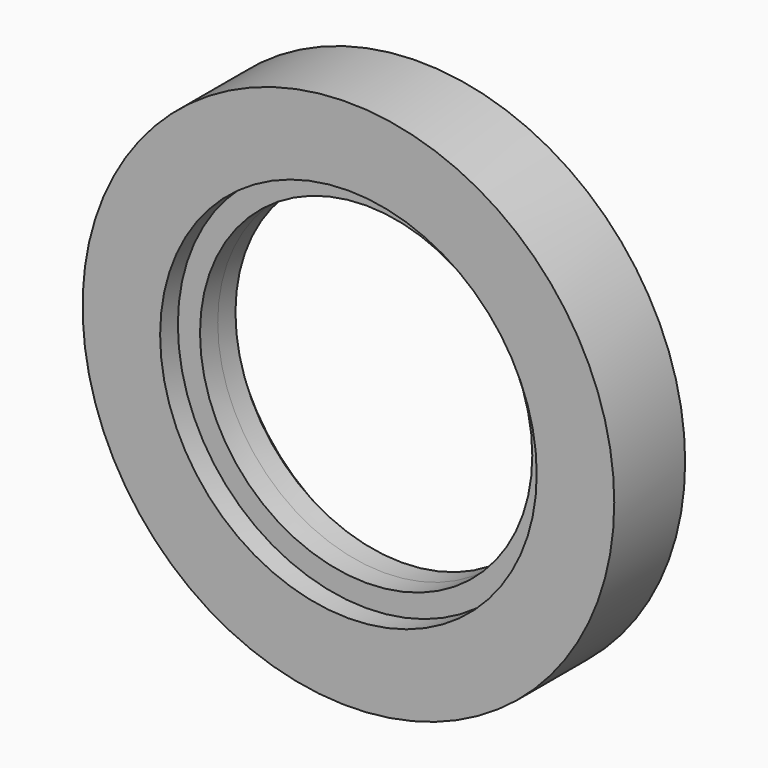
from build123d import *

# Parameters (mm, degrees)
F0_R     = 304.8
F0_R_2   = 215.9
F1_DEPTH = 101.6
F3_R     = 224.342738
F3_R_2   = 190.498142
F4_DEPTH = 25.4
F5_R     = 221.566577
F5_R_2   = 190.5
F6_DEPTH = 25.4


with BuildPart() as f1:
    # F0 (on Front) → F1 (new body)
    with BuildSketch(Plane.XZ):
        Circle(F0_R)
        Circle(F0_R_2, mode=Mode.SUBTRACT)
    extrude(amount=F1_DEPTH)

    # F3 (on offset) → F4 (join)
    with BuildSketch(Plane.XZ.offset(50.8)):
        Circle(F3_R)
        Circle(F3_R_2, mode=Mode.SUBTRACT)
    extrude(amount=F4_DEPTH)

    # F5 (on face) → F6 (join)
    with BuildSketch(Plane(origin=(0, -50.8, 0), x_dir=(-1, 0, 0), z_dir=(0, 1, 0))):
        Circle(F5_R)
        Circle(F5_R_2, mode=Mode.SUBTRACT)
    extrude(amount=F6_DEPTH)


solid = f1.part
